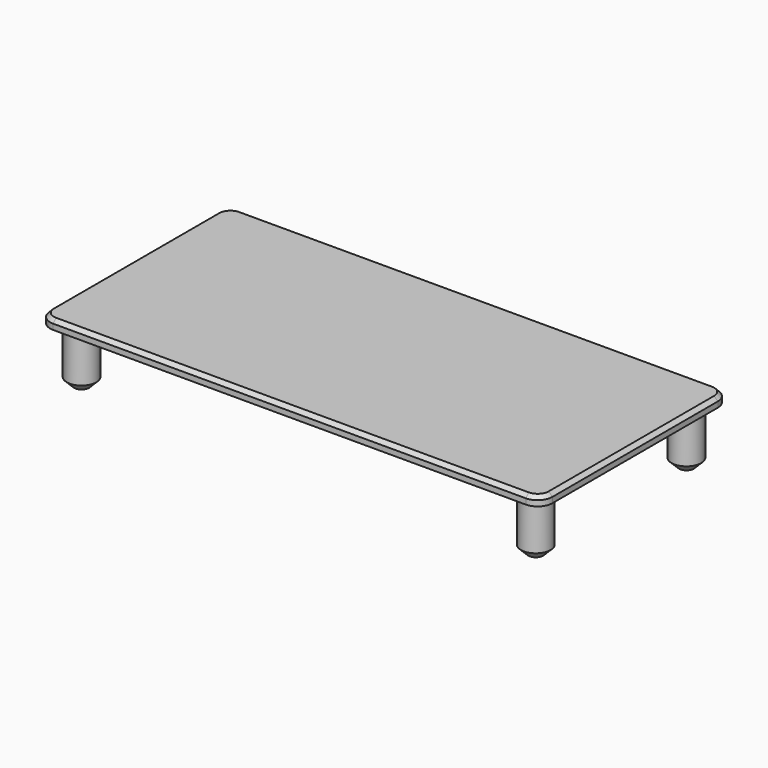
from build123d import *

# Parameters (mm, degrees)
PAD_DEPTH       = 2.5
SKETCH002_R     = 4
PAD001_DEPTH    = 15
CHAMFER_SIZE    = 1
CHAMFER001_SIZE = 2


with BuildPart() as part:
    # Sketch → Pad (new body)
    with BuildSketch(Plane.XY):
        with BuildLine():
            Line((4, 0), (132, 0))
            ThreePointArc((132, 0), (134.828427, 1.171573), (136, 4))
            Line((136, 4), (136, 60))
            ThreePointArc((136, 60), (134.828427, 62.828427), (132, 64))
            Line((132, 64), (4, 64))
            ThreePointArc((4, 64), (1.171573, 62.828427), (0, 60))
            Line((0, 60), (0, 4))
            ThreePointArc((0, 4), (1.171573, 1.171573), (4, 0))
        make_face()
    extrude(amount=PAD_DEPTH)

    # Sketch002 → Pad001 (join)
    with BuildSketch(Plane.XY):
        with Locations((6.5, 6.5)):
            Circle(SKETCH002_R)
        with Locations((129.5, 6.5)):
            Circle(SKETCH002_R)
        with Locations((129.5, 57.5)):
            Circle(SKETCH002_R)
        with Locations((6.5, 57.5)):
            Circle(SKETCH002_R)
        with Locations((68, 57.5)):
            Circle(SKETCH002_R)
    extrude(amount=-PAD001_DEPTH)

    # Chamfer
    chamfer_edges = [part.edges().sort_by_distance(p)[0] for p in [
        (68, 0, 2.5),
        (134.828427, 1.171573, 2.5),
        (136, 32, 2.5),
        (134.828427, 62.828427, 2.5),
        (68, 64, 2.5),
        (1.171573, 62.828427, 2.5),
        (0, 32, 2.5),
        (1.171573, 1.171573, 2.5),
    ]]
    chamfer(chamfer_edges, length=CHAMFER_SIZE)

    # Chamfer001
    chamfer001_edges = [part.edges().sort_by_distance(p)[0] for p in [
        (2.5, 6.5, -15),
        (2.5, 57.5, -15),
        (64, 57.5, -15),
        (125.5, 57.5, -15),
        (125.5, 6.5, -15),
    ]]
    chamfer(chamfer001_edges, length=CHAMFER001_SIZE)


solid = part.part
